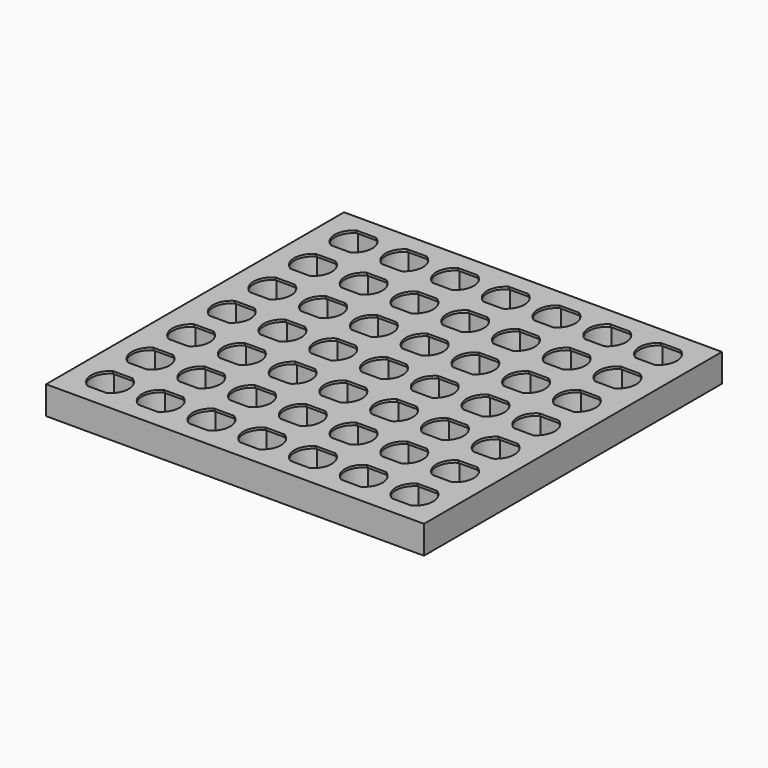
from build123d import *

# Parameters (mm, degrees)
F0_W     = 48.4
F0_H     = 47.7
F1_DEPTH = 3
F2_W     = 48.4
F2_H     = 47.7
F3_DEPTH = 0.3
F4_W     = 48.4
F4_H     = 47.7
F5_DEPTH = 0.3


with BuildPart() as f1:
    # F0 (on Top) → F1 (new body)
    with BuildSketch(Plane.XY):
        with Locations((-5.123579, -2.977481)):
            Rectangle(F0_W, F0_H)
        with BuildLine():
            ThreePointArc((-25.953053, -24.827481), (-27.323579, -22.477481), (-25.953053, -20.127481))
            Line((-25.953053, -20.127481), (-23.294105, -20.127481))
            ThreePointArc((-23.294105, -20.127481), (-21.923579, -22.477481), (-23.294105, -24.827481))
            Line((-23.294105, -24.827481), (-25.953053, -24.827481))
        make_face(mode=Mode.SUBTRACT)
        with BuildLine():
            ThreePointArc((-19.453053, -24.827481), (-20.823579, -22.477481), (-19.453053, -20.127481))
            Line((-19.453053, -20.127481), (-16.794105, -20.127481))
            ThreePointArc((-16.794105, -20.127481), (-15.423579, -22.477481), (-16.794105, -24.827481))
            Line((-16.794105, -24.827481), (-19.453053, -24.827481))
        make_face(mode=Mode.SUBTRACT)
        with BuildLine():
            ThreePointArc((-25.953053, -18.327481), (-27.323579, -15.977481), (-25.953053, -13.627481))
            Line((-25.953053, -13.627481), (-23.294105, -13.627481))
            ThreePointArc((-23.294105, -13.627481), (-21.923579, -15.977481), (-23.294105, -18.327481))
            Line((-23.294105, -18.327481), (-25.953053, -18.327481))
        make_face(mode=Mode.SUBTRACT)
        with BuildLine():
            ThreePointArc((-19.453053, -18.327481), (-20.823579, -15.977481), (-19.453053, -13.627481))
            Line((-19.453053, -13.627481), (-16.794105, -13.627481))
            ThreePointArc((-16.794105, -13.627481), (-15.423579, -15.977481), (-16.794105, -18.327481))
            Line((-16.794105, -18.327481), (-19.453053, -18.327481))
        make_face(mode=Mode.SUBTRACT)
        with BuildLine():
            ThreePointArc((-12.953053, -24.827481), (-14.323579, -22.477481), (-12.953053, -20.127481))
            Line((-12.953053, -20.127481), (-10.294105, -20.127481))
            ThreePointArc((-10.294105, -20.127481), (-8.923579, -22.477481), (-10.294105, -24.827481))
            Line((-10.294105, -24.827481), (-12.953053, -24.827481))
        make_face(mode=Mode.SUBTRACT)
        with BuildLine():
            ThreePointArc((-6.453053, -24.827481), (-7.823579, -22.477481), (-6.453053, -20.127481))
            Line((-6.453053, -20.127481), (-3.794105, -20.127481))
            ThreePointArc((-3.794105, -20.127481), (-2.423579, -22.477481), (-3.794105, -24.827481))
            Line((-3.794105, -24.827481), (-6.453053, -24.827481))
        make_face(mode=Mode.SUBTRACT)
        with BuildLine():
            ThreePointArc((-12.953053, -18.327481), (-14.323579, -15.977481), (-12.953053, -13.627481))
            Line((-12.953053, -13.627481), (-10.294105, -13.627481))
            ThreePointArc((-10.294105, -13.627481), (-8.923579, -15.977481), (-10.294105, -18.327481))
            Line((-10.294105, -18.327481), (-12.953053, -18.327481))
        make_face(mode=Mode.SUBTRACT)
        with BuildLine():
            ThreePointArc((-6.453053, -18.327481), (-7.823579, -15.977481), (-6.453053, -13.627481))
            Line((-6.453053, -13.627481), (-3.794105, -13.627481))
            ThreePointArc((-3.794105, -13.627481), (-2.423579, -15.977481), (-3.794105, -18.327481))
            Line((-3.794105, -18.327481), (-6.453053, -18.327481))
        make_face(mode=Mode.SUBTRACT)
        with BuildLine():
            ThreePointArc((-25.953053, -11.827481), (-27.323579, -9.477481), (-25.953053, -7.127481))
            Line((-25.953053, -7.127481), (-23.294105, -7.127481))
            ThreePointArc((-23.294105, -7.127481), (-21.923579, -9.477481), (-23.294105, -11.827481))
            Line((-23.294105, -11.827481), (-25.953053, -11.827481))
        make_face(mode=Mode.SUBTRACT)
        with BuildLine():
            ThreePointArc((-19.453053, -11.827481), (-20.823579, -9.477481), (-19.453053, -7.127481))
            Line((-19.453053, -7.127481), (-16.794105, -7.127481))
            ThreePointArc((-16.794105, -7.127481), (-15.423579, -9.477481), (-16.794105, -11.827481))
            Line((-16.794105, -11.827481), (-19.453053, -11.827481))
        make_face(mode=Mode.SUBTRACT)
        with BuildLine():
            ThreePointArc((-12.953053, -11.827481), (-14.323579, -9.477481), (-12.953053, -7.127481))
            Line((-12.953053, -7.127481), (-10.294105, -7.127481))
            ThreePointArc((-10.294105, -7.127481), (-8.923579, -9.477481), (-10.294105, -11.827481))
            Line((-10.294105, -11.827481), (-12.953053, -11.827481))
        make_face(mode=Mode.SUBTRACT)
        with BuildLine():
            ThreePointArc((-6.453053, -11.827481), (-7.823579, -9.477481), (-6.453053, -7.127481))
            Line((-6.453053, -7.127481), (-3.794105, -7.127481))
            ThreePointArc((-3.794105, -7.127481), (-2.423579, -9.477481), (-3.794105, -11.827481))
            Line((-3.794105, -11.827481), (-6.453053, -11.827481))
        make_face(mode=Mode.SUBTRACT)
        with BuildLine():
            ThreePointArc((-12.953053, -5.327481), (-14.323579, -2.977481), (-12.953053, -0.627481))
            Line((-12.953053, -0.627481), (-10.294105, -0.627481))
            ThreePointArc((-10.294105, -0.627481), (-8.923579, -2.977481), (-10.294105, -5.327481))
            Line((-10.294105, -5.327481), (-12.953053, -5.327481))
        make_face(mode=Mode.SUBTRACT)
        with BuildLine():
            ThreePointArc((0.046947, -24.827481), (-1.323579, -22.477481), (0.046947, -20.127481))
            Line((0.046947, -20.127481), (2.705895, -20.127481))
            ThreePointArc((2.705895, -20.127481), (4.076421, -22.477481), (2.705895, -24.827481))
            Line((2.705895, -24.827481), (0.046947, -24.827481))
        make_face(mode=Mode.SUBTRACT)
        with BuildLine():
            ThreePointArc((0.046947, -18.327481), (-1.323579, -15.977481), (0.046947, -13.627481))
            Line((0.046947, -13.627481), (2.705895, -13.627481))
            ThreePointArc((2.705895, -13.627481), (4.076421, -15.977481), (2.705895, -18.327481))
            Line((2.705895, -18.327481), (0.046947, -18.327481))
        make_face(mode=Mode.SUBTRACT)
        with BuildLine():
            ThreePointArc((6.546947, -24.827481), (5.176421, -22.477481), (6.546947, -20.127481))
            Line((6.546947, -20.127481), (9.205895, -20.127481))
            ThreePointArc((9.205895, -20.127481), (10.576421, -22.477481), (9.205895, -24.827481))
            Line((9.205895, -24.827481), (6.546947, -24.827481))
        make_face(mode=Mode.SUBTRACT)
        with BuildLine():
            ThreePointArc((13.046947, -24.827481), (11.676421, -22.477481), (13.046947, -20.127481))
            Line((13.046947, -20.127481), (15.705895, -20.127481))
            ThreePointArc((15.705895, -20.127481), (17.076421, -22.477481), (15.705895, -24.827481))
            Line((15.705895, -24.827481), (13.046947, -24.827481))
        make_face(mode=Mode.SUBTRACT)
        with BuildLine():
            ThreePointArc((6.546947, -18.327481), (5.176421, -15.977481), (6.546947, -13.627481))
            Line((6.546947, -13.627481), (9.205895, -13.627481))
            ThreePointArc((9.205895, -13.627481), (10.576421, -15.977481), (9.205895, -18.327481))
            Line((9.205895, -18.327481), (6.546947, -18.327481))
        make_face(mode=Mode.SUBTRACT)
        with BuildLine():
            ThreePointArc((13.046947, -18.327481), (11.676421, -15.977481), (13.046947, -13.627481))
            Line((13.046947, -13.627481), (15.705895, -13.627481))
            ThreePointArc((15.705895, -13.627481), (17.076421, -15.977481), (15.705895, -18.327481))
            Line((15.705895, -18.327481), (13.046947, -18.327481))
        make_face(mode=Mode.SUBTRACT)
        with BuildLine():
            ThreePointArc((0.046947, -11.827481), (-1.323579, -9.477481), (0.046947, -7.127481))
            Line((0.046947, -7.127481), (2.705895, -7.127481))
            ThreePointArc((2.705895, -7.127481), (4.076421, -9.477481), (2.705895, -11.827481))
            Line((2.705895, -11.827481), (0.046947, -11.827481))
        make_face(mode=Mode.SUBTRACT)
        with BuildLine():
            ThreePointArc((6.546947, -11.827481), (5.176421, -9.477481), (6.546947, -7.127481))
            Line((6.546947, -7.127481), (9.205895, -7.127481))
            ThreePointArc((9.205895, -7.127481), (10.576421, -9.477481), (9.205895, -11.827481))
            Line((9.205895, -11.827481), (6.546947, -11.827481))
        make_face(mode=Mode.SUBTRACT)
        with BuildLine():
            ThreePointArc((13.046947, -11.827481), (11.676421, -9.477481), (13.046947, -7.127481))
            Line((13.046947, -7.127481), (15.705895, -7.127481))
            ThreePointArc((15.705895, -7.127481), (17.076421, -9.477481), (15.705895, -11.827481))
            Line((15.705895, -11.827481), (13.046947, -11.827481))
        make_face(mode=Mode.SUBTRACT)
        with BuildLine():
            ThreePointArc((-25.953053, -5.327481), (-27.323579, -2.977481), (-25.953053, -0.627481))
            Line((-25.953053, -0.627481), (-23.294105, -0.627481))
            ThreePointArc((-23.294105, -0.627481), (-21.923579, -2.977481), (-23.294105, -5.327481))
            Line((-23.294105, -5.327481), (-25.953053, -5.327481))
        make_face(mode=Mode.SUBTRACT)
        with BuildLine():
            ThreePointArc((-19.453053, -5.327481), (-20.823579, -2.977481), (-19.453053, -0.627481))
            Line((-19.453053, -0.627481), (-16.794105, -0.627481))
            ThreePointArc((-16.794105, -0.627481), (-15.423579, -2.977481), (-16.794105, -5.327481))
            Line((-16.794105, -5.327481), (-19.453053, -5.327481))
        make_face(mode=Mode.SUBTRACT)
        with BuildLine():
            ThreePointArc((-25.953053, 1.172519), (-27.323579, 3.522519), (-25.953053, 5.872519))
            Line((-25.953053, 5.872519), (-23.294105, 5.872519))
            ThreePointArc((-23.294105, 5.872519), (-21.923579, 3.522519), (-23.294105, 1.172519))
            Line((-23.294105, 1.172519), (-25.953053, 1.172519))
        make_face(mode=Mode.SUBTRACT)
        with BuildLine():
            ThreePointArc((-19.453053, 1.172519), (-20.823579, 3.522519), (-19.453053, 5.872519))
            Line((-19.453053, 5.872519), (-16.794105, 5.872519))
            ThreePointArc((-16.794105, 5.872519), (-15.423579, 3.522519), (-16.794105, 1.172519))
            Line((-16.794105, 1.172519), (-19.453053, 1.172519))
        make_face(mode=Mode.SUBTRACT)
        with BuildLine():
            ThreePointArc((-6.453053, -5.327481), (-7.823579, -2.977481), (-6.453053, -0.627481))
            Line((-6.453053, -0.627481), (-3.794105, -0.627481))
            ThreePointArc((-3.794105, -0.627481), (-2.423579, -2.977481), (-3.794105, -5.327481))
            Line((-3.794105, -5.327481), (-6.453053, -5.327481))
        make_face(mode=Mode.SUBTRACT)
        with BuildLine():
            ThreePointArc((-12.953053, 1.172519), (-14.323579, 3.522519), (-12.953053, 5.872519))
            Line((-12.953053, 5.872519), (-10.294105, 5.872519))
            ThreePointArc((-10.294105, 5.872519), (-8.923579, 3.522519), (-10.294105, 1.172519))
            Line((-10.294105, 1.172519), (-12.953053, 1.172519))
        make_face(mode=Mode.SUBTRACT)
        with BuildLine():
            ThreePointArc((-6.453053, 1.172519), (-7.823579, 3.522519), (-6.453053, 5.872519))
            Line((-6.453053, 5.872519), (-3.794105, 5.872519))
            ThreePointArc((-3.794105, 5.872519), (-2.423579, 3.522519), (-3.794105, 1.172519))
            Line((-3.794105, 1.172519), (-6.453053, 1.172519))
        make_face(mode=Mode.SUBTRACT)
        with BuildLine():
            ThreePointArc((-25.953053, 7.672519), (-27.323579, 10.022519), (-25.953053, 12.372519))
            Line((-25.953053, 12.372519), (-23.294105, 12.372519))
            ThreePointArc((-23.294105, 12.372519), (-21.923579, 10.022519), (-23.294105, 7.672519))
            Line((-23.294105, 7.672519), (-25.953053, 7.672519))
        make_face(mode=Mode.SUBTRACT)
        with BuildLine():
            ThreePointArc((-19.453053, 7.672519), (-20.823579, 10.022519), (-19.453053, 12.372519))
            Line((-19.453053, 12.372519), (-16.794105, 12.372519))
            ThreePointArc((-16.794105, 12.372519), (-15.423579, 10.022519), (-16.794105, 7.672519))
            Line((-16.794105, 7.672519), (-19.453053, 7.672519))
        make_face(mode=Mode.SUBTRACT)
        with BuildLine():
            ThreePointArc((-23.294105, 18.872519), (-21.923579, 16.522519), (-23.294105, 14.172519))
            Line((-23.294105, 14.172519), (-25.953053, 14.172519))
            ThreePointArc((-25.953053, 14.172519), (-27.323579, 16.522519), (-25.953053, 18.872519))
            Line((-25.953053, 18.872519), (-23.294105, 18.872519))
        make_face(mode=Mode.SUBTRACT)
        with BuildLine():
            ThreePointArc((-19.453053, 14.172519), (-20.823579, 16.522519), (-19.453053, 18.872519))
            Line((-19.453053, 18.872519), (-16.794105, 18.872519))
            ThreePointArc((-16.794105, 18.872519), (-15.423579, 16.522519), (-16.794105, 14.172519))
            Line((-16.794105, 14.172519), (-19.453053, 14.172519))
        make_face(mode=Mode.SUBTRACT)
        with BuildLine():
            ThreePointArc((-12.953053, 7.672519), (-14.323579, 10.022519), (-12.953053, 12.372519))
            Line((-12.953053, 12.372519), (-10.294105, 12.372519))
            ThreePointArc((-10.294105, 12.372519), (-8.923579, 10.022519), (-10.294105, 7.672519))
            Line((-10.294105, 7.672519), (-12.953053, 7.672519))
        make_face(mode=Mode.SUBTRACT)
        with BuildLine():
            ThreePointArc((-6.453053, 7.672519), (-7.823579, 10.022519), (-6.453053, 12.372519))
            Line((-6.453053, 12.372519), (-3.794105, 12.372519))
            ThreePointArc((-3.794105, 12.372519), (-2.423579, 10.022519), (-3.794105, 7.672519))
            Line((-3.794105, 7.672519), (-6.453053, 7.672519))
        make_face(mode=Mode.SUBTRACT)
        with BuildLine():
            ThreePointArc((-12.953053, 14.172519), (-14.323579, 16.522519), (-12.953053, 18.872519))
            Line((-12.953053, 18.872519), (-10.294105, 18.872519))
            ThreePointArc((-10.294105, 18.872519), (-8.923579, 16.522519), (-10.294105, 14.172519))
            Line((-10.294105, 14.172519), (-12.953053, 14.172519))
        make_face(mode=Mode.SUBTRACT)
        with BuildLine():
            ThreePointArc((0.046947, -5.327481), (-1.323579, -2.977481), (0.046947, -0.627481))
            Line((0.046947, -0.627481), (2.705895, -0.627481))
            ThreePointArc((2.705895, -0.627481), (4.076421, -2.977481), (2.705895, -5.327481))
            Line((2.705895, -5.327481), (0.046947, -5.327481))
        make_face(mode=Mode.SUBTRACT)
        with BuildLine():
            ThreePointArc((0.046947, 1.172519), (-1.323579, 3.522519), (0.046947, 5.872519))
            Line((0.046947, 5.872519), (2.705895, 5.872519))
            ThreePointArc((2.705895, 5.872519), (4.076421, 3.522519), (2.705895, 1.172519))
            Line((2.705895, 1.172519), (0.046947, 1.172519))
        make_face(mode=Mode.SUBTRACT)
        with BuildLine():
            ThreePointArc((6.546947, -5.327481), (5.176421, -2.977481), (6.546947, -0.627481))
            Line((6.546947, -0.627481), (9.205895, -0.627481))
            ThreePointArc((9.205895, -0.627481), (10.576421, -2.977481), (9.205895, -5.327481))
            Line((9.205895, -5.327481), (6.546947, -5.327481))
        make_face(mode=Mode.SUBTRACT)
        with BuildLine():
            ThreePointArc((13.046947, -5.327481), (11.676421, -2.977481), (13.046947, -0.627481))
            Line((13.046947, -0.627481), (15.705895, -0.627481))
            ThreePointArc((15.705895, -0.627481), (17.076421, -2.977481), (15.705895, -5.327481))
            Line((15.705895, -5.327481), (13.046947, -5.327481))
        make_face(mode=Mode.SUBTRACT)
        with BuildLine():
            ThreePointArc((6.546947, 1.172519), (5.176421, 3.522519), (6.546947, 5.872519))
            Line((6.546947, 5.872519), (9.205895, 5.872519))
            ThreePointArc((9.205895, 5.872519), (10.576421, 3.522519), (9.205895, 1.172519))
            Line((9.205895, 1.172519), (6.546947, 1.172519))
        make_face(mode=Mode.SUBTRACT)
        with BuildLine():
            ThreePointArc((13.046947, 1.172519), (11.676421, 3.522519), (13.046947, 5.872519))
            Line((13.046947, 5.872519), (15.705895, 5.872519))
            ThreePointArc((15.705895, 5.872519), (17.076421, 3.522519), (15.705895, 1.172519))
            Line((15.705895, 1.172519), (13.046947, 1.172519))
        make_face(mode=Mode.SUBTRACT)
        with BuildLine():
            ThreePointArc((0.046947, 7.672519), (-1.323579, 10.022519), (0.046947, 12.372519))
            Line((0.046947, 12.372519), (2.705895, 12.372519))
            ThreePointArc((2.705895, 12.372519), (4.076421, 10.022519), (2.705895, 7.672519))
            Line((2.705895, 7.672519), (0.046947, 7.672519))
        make_face(mode=Mode.SUBTRACT)
        with BuildLine():
            ThreePointArc((-6.453053, 14.172519), (-7.823579, 16.522519), (-6.453053, 18.872519))
            Line((-6.453053, 18.872519), (-3.794105, 18.872519))
            ThreePointArc((-3.794105, 18.872519), (-2.423579, 16.522519), (-3.794105, 14.172519))
            Line((-3.794105, 14.172519), (-6.453053, 14.172519))
        make_face(mode=Mode.SUBTRACT)
        with BuildLine():
            ThreePointArc((0.046947, 14.172519), (-1.323579, 16.522519), (0.046947, 18.872519))
            Line((0.046947, 18.872519), (2.705895, 18.872519))
            ThreePointArc((2.705895, 18.872519), (4.076421, 16.522519), (2.705895, 14.172519))
            Line((2.705895, 14.172519), (0.046947, 14.172519))
        make_face(mode=Mode.SUBTRACT)
        with BuildLine():
            ThreePointArc((6.546947, 7.672519), (5.176421, 10.022519), (6.546947, 12.372519))
            Line((6.546947, 12.372519), (9.205895, 12.372519))
            ThreePointArc((9.205895, 12.372519), (10.576421, 10.022519), (9.205895, 7.672519))
            Line((9.205895, 7.672519), (6.546947, 7.672519))
        make_face(mode=Mode.SUBTRACT)
        with BuildLine():
            ThreePointArc((13.046947, 7.672519), (11.676421, 10.022519), (13.046947, 12.372519))
            Line((13.046947, 12.372519), (15.705895, 12.372519))
            ThreePointArc((15.705895, 12.372519), (17.076421, 10.022519), (15.705895, 7.672519))
            Line((15.705895, 7.672519), (13.046947, 7.672519))
        make_face(mode=Mode.SUBTRACT)
        with BuildLine():
            ThreePointArc((6.546947, 14.172519), (5.176421, 16.522519), (6.546947, 18.872519))
            Line((6.546947, 18.872519), (9.205895, 18.872519))
            ThreePointArc((9.205895, 18.872519), (10.576421, 16.522519), (9.205895, 14.172519))
            Line((9.205895, 14.172519), (6.546947, 14.172519))
        make_face(mode=Mode.SUBTRACT)
        with BuildLine():
            ThreePointArc((13.046947, 14.172519), (11.676421, 16.522519), (13.046947, 18.872519))
            Line((13.046947, 18.872519), (15.705895, 18.872519))
            ThreePointArc((15.705895, 18.872519), (17.076421, 16.522519), (15.705895, 14.172519))
            Line((15.705895, 14.172519), (13.046947, 14.172519))
        make_face(mode=Mode.SUBTRACT)
    extrude(amount=F1_DEPTH)

    # F2 (on face) → F3 (join)
    with BuildSketch(Plane.XY.offset(3)):
        with Locations((-5.123579, -2.977481)):
            Rectangle(F2_W, F2_H)
        with BuildLine():
            ThreePointArc((-25.871577, -24.527481), (-27.023579, -22.477481), (-25.871577, -20.427481))
            Line((-25.871577, -20.427481), (-23.375581, -20.427481))
            ThreePointArc((-23.375581, -20.427481), (-22.223579, -22.477481), (-23.375581, -24.527481))
            Line((-23.375581, -24.527481), (-25.871577, -24.527481))
        make_face(mode=Mode.SUBTRACT)
        with BuildLine():
            ThreePointArc((-19.371577, -24.527481), (-20.523579, -22.477481), (-19.371577, -20.427481))
            Line((-19.371577, -20.427481), (-16.875581, -20.427481))
            ThreePointArc((-16.875581, -20.427481), (-15.723579, -22.477481), (-16.875581, -24.527481))
            Line((-16.875581, -24.527481), (-19.371577, -24.527481))
        make_face(mode=Mode.SUBTRACT)
        with BuildLine():
            ThreePointArc((-25.871577, -18.027481), (-27.023579, -15.977481), (-25.871577, -13.927481))
            Line((-25.871577, -13.927481), (-23.375581, -13.927481))
            ThreePointArc((-23.375581, -13.927481), (-22.223579, -15.977481), (-23.375581, -18.027481))
            Line((-23.375581, -18.027481), (-25.871577, -18.027481))
        make_face(mode=Mode.SUBTRACT)
        with BuildLine():
            ThreePointArc((-19.371577, -18.027481), (-20.523579, -15.977481), (-19.371577, -13.927481))
            Line((-19.371577, -13.927481), (-16.875581, -13.927481))
            ThreePointArc((-16.875581, -13.927481), (-15.723579, -15.977481), (-16.875581, -18.027481))
            Line((-16.875581, -18.027481), (-19.371577, -18.027481))
        make_face(mode=Mode.SUBTRACT)
        with BuildLine():
            ThreePointArc((-12.871577, -24.527481), (-14.023579, -22.477481), (-12.871577, -20.427481))
            Line((-12.871577, -20.427481), (-10.375581, -20.427481))
            ThreePointArc((-10.375581, -20.427481), (-9.223579, -22.477481), (-10.375581, -24.527481))
            Line((-10.375581, -24.527481), (-12.871577, -24.527481))
        make_face(mode=Mode.SUBTRACT)
        with BuildLine():
            ThreePointArc((-12.871577, -18.027481), (-14.023579, -15.977481), (-12.871577, -13.927481))
            Line((-12.871577, -13.927481), (-10.375581, -13.927481))
            ThreePointArc((-10.375581, -13.927481), (-9.223579, -15.977481), (-10.375581, -18.027481))
            Line((-10.375581, -18.027481), (-12.871577, -18.027481))
        make_face(mode=Mode.SUBTRACT)
        with BuildLine():
            ThreePointArc((-25.871577, -11.527481), (-27.023579, -9.477481), (-25.871577, -7.427481))
            Line((-25.871577, -7.427481), (-23.375581, -7.427481))
            ThreePointArc((-23.375581, -7.427481), (-22.223579, -9.477481), (-23.375581, -11.527481))
            Line((-23.375581, -11.527481), (-25.871577, -11.527481))
        make_face(mode=Mode.SUBTRACT)
        with BuildLine():
            ThreePointArc((-19.371577, -11.527481), (-20.523579, -9.477481), (-19.371577, -7.427481))
            Line((-19.371577, -7.427481), (-16.875581, -7.427481))
            ThreePointArc((-16.875581, -7.427481), (-15.723579, -9.477481), (-16.875581, -11.527481))
            Line((-16.875581, -11.527481), (-19.371577, -11.527481))
        make_face(mode=Mode.SUBTRACT)
        with BuildLine():
            ThreePointArc((-12.871577, -11.527481), (-14.023579, -9.477481), (-12.871577, -7.427481))
            Line((-12.871577, -7.427481), (-10.375581, -7.427481))
            ThreePointArc((-10.375581, -7.427481), (-9.223579, -9.477481), (-10.375581, -11.527481))
            Line((-10.375581, -11.527481), (-12.871577, -11.527481))
        make_face(mode=Mode.SUBTRACT)
        with BuildLine():
            ThreePointArc((-6.371577, -24.527481), (-7.523579, -22.477481), (-6.371577, -20.427481))
            Line((-6.371577, -20.427481), (-3.875581, -20.427481))
            ThreePointArc((-3.875581, -20.427481), (-2.723579, -22.477481), (-3.875581, -24.527481))
            Line((-3.875581, -24.527481), (-6.371577, -24.527481))
        make_face(mode=Mode.SUBTRACT)
        with BuildLine():
            ThreePointArc((0.128423, -24.527481), (-1.023579, -22.477481), (0.128423, -20.427481))
            Line((0.128423, -20.427481), (2.624419, -20.427481))
            ThreePointArc((2.624419, -20.427481), (3.776421, -22.477481), (2.624419, -24.527481))
            Line((2.624419, -24.527481), (0.128423, -24.527481))
        make_face(mode=Mode.SUBTRACT)
        with BuildLine():
            ThreePointArc((-6.371577, -18.027481), (-7.523579, -15.977481), (-6.371577, -13.927481))
            Line((-6.371577, -13.927481), (-3.875581, -13.927481))
            ThreePointArc((-3.875581, -13.927481), (-2.723579, -15.977481), (-3.875581, -18.027481))
            Line((-3.875581, -18.027481), (-6.371577, -18.027481))
        make_face(mode=Mode.SUBTRACT)
        with BuildLine():
            ThreePointArc((0.128423, -18.027481), (-1.023579, -15.977481), (0.128423, -13.927481))
            Line((0.128423, -13.927481), (2.624419, -13.927481))
            ThreePointArc((2.624419, -13.927481), (3.776421, -15.977481), (2.624419, -18.027481))
            Line((2.624419, -18.027481), (0.128423, -18.027481))
        make_face(mode=Mode.SUBTRACT)
        with BuildLine():
            ThreePointArc((6.628423, -24.527481), (5.476421, -22.477481), (6.628423, -20.427481))
            Line((6.628423, -20.427481), (9.124419, -20.427481))
            ThreePointArc((9.124419, -20.427481), (10.276421, -22.477481), (9.124419, -24.527481))
            Line((9.124419, -24.527481), (6.628423, -24.527481))
        make_face(mode=Mode.SUBTRACT)
        with BuildLine():
            ThreePointArc((13.128423, -24.527481), (11.976421, -22.477481), (13.128423, -20.427481))
            Line((13.128423, -20.427481), (15.624419, -20.427481))
            ThreePointArc((15.624419, -20.427481), (16.776421, -22.477481), (15.624419, -24.527481))
            Line((15.624419, -24.527481), (13.128423, -24.527481))
        make_face(mode=Mode.SUBTRACT)
        with BuildLine():
            ThreePointArc((6.628423, -18.027481), (5.476421, -15.977481), (6.628423, -13.927481))
            Line((6.628423, -13.927481), (9.124419, -13.927481))
            ThreePointArc((9.124419, -13.927481), (10.276421, -15.977481), (9.124419, -18.027481))
            Line((9.124419, -18.027481), (6.628423, -18.027481))
        make_face(mode=Mode.SUBTRACT)
        with BuildLine():
            ThreePointArc((13.128423, -18.027481), (11.976421, -15.977481), (13.128423, -13.927481))
            Line((13.128423, -13.927481), (15.624419, -13.927481))
            ThreePointArc((15.624419, -13.927481), (16.776421, -15.977481), (15.624419, -18.027481))
            Line((15.624419, -18.027481), (13.128423, -18.027481))
        make_face(mode=Mode.SUBTRACT)
        with BuildLine():
            ThreePointArc((-6.371577, -11.527481), (-7.523579, -9.477481), (-6.371577, -7.427481))
            Line((-6.371577, -7.427481), (-3.875581, -7.427481))
            ThreePointArc((-3.875581, -7.427481), (-2.723579, -9.477481), (-3.875581, -11.527481))
            Line((-3.875581, -11.527481), (-6.371577, -11.527481))
        make_face(mode=Mode.SUBTRACT)
        with BuildLine():
            ThreePointArc((0.128423, -11.527481), (-1.023579, -9.477481), (0.128423, -7.427481))
            Line((0.128423, -7.427481), (2.624419, -7.427481))
            ThreePointArc((2.624419, -7.427481), (3.776421, -9.477481), (2.624419, -11.527481))
            Line((2.624419, -11.527481), (0.128423, -11.527481))
        make_face(mode=Mode.SUBTRACT)
        with BuildLine():
            ThreePointArc((6.628423, -11.527481), (5.476421, -9.477481), (6.628423, -7.427481))
            Line((6.628423, -7.427481), (9.124419, -7.427481))
            ThreePointArc((9.124419, -7.427481), (10.276421, -9.477481), (9.124419, -11.527481))
            Line((9.124419, -11.527481), (6.628423, -11.527481))
        make_face(mode=Mode.SUBTRACT)
        with BuildLine():
            ThreePointArc((13.128423, -11.527481), (11.976421, -9.477481), (13.128423, -7.427481))
            Line((13.128423, -7.427481), (15.624419, -7.427481))
            ThreePointArc((15.624419, -7.427481), (16.776421, -9.477481), (15.624419, -11.527481))
            Line((15.624419, -11.527481), (13.128423, -11.527481))
        make_face(mode=Mode.SUBTRACT)
        with BuildLine():
            ThreePointArc((-25.871577, -5.027481), (-27.023579, -2.977481), (-25.871577, -0.927481))
            Line((-25.871577, -0.927481), (-23.375581, -0.927481))
            ThreePointArc((-23.375581, -0.927481), (-22.223579, -2.977481), (-23.375581, -5.027481))
            Line((-23.375581, -5.027481), (-25.871577, -5.027481))
        make_face(mode=Mode.SUBTRACT)
        with BuildLine():
            ThreePointArc((-19.371577, -5.027481), (-20.523579, -2.977481), (-19.371577, -0.927481))
            Line((-19.371577, -0.927481), (-16.875581, -0.927481))
            ThreePointArc((-16.875581, -0.927481), (-15.723579, -2.977481), (-16.875581, -5.027481))
            Line((-16.875581, -5.027481), (-19.371577, -5.027481))
        make_face(mode=Mode.SUBTRACT)
        with BuildLine():
            ThreePointArc((-25.871577, 1.472519), (-27.023579, 3.522519), (-25.871577, 5.572519))
            Line((-25.871577, 5.572519), (-23.375581, 5.572519))
            ThreePointArc((-23.375581, 5.572519), (-22.223579, 3.522519), (-23.375581, 1.472519))
            Line((-23.375581, 1.472519), (-25.871577, 1.472519))
        make_face(mode=Mode.SUBTRACT)
        with BuildLine():
            ThreePointArc((-19.371577, 1.472519), (-20.523579, 3.522519), (-19.371577, 5.572519))
            Line((-19.371577, 5.572519), (-16.875581, 5.572519))
            ThreePointArc((-16.875581, 5.572519), (-15.723579, 3.522519), (-16.875581, 1.472519))
            Line((-16.875581, 1.472519), (-19.371577, 1.472519))
        make_face(mode=Mode.SUBTRACT)
        with BuildLine():
            ThreePointArc((-12.871577, -5.027481), (-14.023579, -2.977481), (-12.871577, -0.927481))
            Line((-12.871577, -0.927481), (-10.375581, -0.927481))
            ThreePointArc((-10.375581, -0.927481), (-9.223579, -2.977481), (-10.375581, -5.027481))
            Line((-10.375581, -5.027481), (-12.871577, -5.027481))
        make_face(mode=Mode.SUBTRACT)
        with BuildLine():
            ThreePointArc((-12.871577, 1.472519), (-14.023579, 3.522519), (-12.871577, 5.572519))
            Line((-12.871577, 5.572519), (-10.375581, 5.572519))
            ThreePointArc((-10.375581, 5.572519), (-9.223579, 3.522519), (-10.375581, 1.472519))
            Line((-10.375581, 1.472519), (-12.871577, 1.472519))
        make_face(mode=Mode.SUBTRACT)
        with BuildLine():
            ThreePointArc((-25.871577, 7.972519), (-27.023579, 10.022519), (-25.871577, 12.072519))
            Line((-25.871577, 12.072519), (-23.375581, 12.072519))
            ThreePointArc((-23.375581, 12.072519), (-22.223579, 10.022519), (-23.375581, 7.972519))
            Line((-23.375581, 7.972519), (-25.871577, 7.972519))
        make_face(mode=Mode.SUBTRACT)
        with BuildLine():
            ThreePointArc((-19.371577, 7.972519), (-20.523579, 10.022519), (-19.371577, 12.072519))
            Line((-19.371577, 12.072519), (-16.875581, 12.072519))
            ThreePointArc((-16.875581, 12.072519), (-15.723579, 10.022519), (-16.875581, 7.972519))
            Line((-16.875581, 7.972519), (-19.371577, 7.972519))
        make_face(mode=Mode.SUBTRACT)
        with BuildLine():
            Line((-25.871577, 18.572519), (-23.375581, 18.572519))
            ThreePointArc((-23.375581, 18.572519), (-22.223579, 16.522519), (-23.375581, 14.472519))
            Line((-23.375581, 14.472519), (-25.871577, 14.472519))
            ThreePointArc((-25.871577, 14.472519), (-27.023579, 16.522519), (-25.871577, 18.572519))
        make_face(mode=Mode.SUBTRACT)
        with BuildLine():
            ThreePointArc((-19.371577, 14.472519), (-20.523579, 16.522519), (-19.371577, 18.572519))
            Line((-19.371577, 18.572519), (-16.875581, 18.572519))
            ThreePointArc((-16.875581, 18.572519), (-15.723579, 16.522519), (-16.875581, 14.472519))
            Line((-16.875581, 14.472519), (-19.371577, 14.472519))
        make_face(mode=Mode.SUBTRACT)
        with BuildLine():
            ThreePointArc((-12.871577, 7.972519), (-14.023579, 10.022519), (-12.871577, 12.072519))
            Line((-12.871577, 12.072519), (-10.375581, 12.072519))
            ThreePointArc((-10.375581, 12.072519), (-9.223579, 10.022519), (-10.375581, 7.972519))
            Line((-10.375581, 7.972519), (-12.871577, 7.972519))
        make_face(mode=Mode.SUBTRACT)
        with BuildLine():
            ThreePointArc((-12.871577, 14.472519), (-14.023579, 16.522519), (-12.871577, 18.572519))
            Line((-12.871577, 18.572519), (-10.375581, 18.572519))
            ThreePointArc((-10.375581, 18.572519), (-9.223579, 16.522519), (-10.375581, 14.472519))
            Line((-10.375581, 14.472519), (-12.871577, 14.472519))
        make_face(mode=Mode.SUBTRACT)
        with BuildLine():
            ThreePointArc((-6.371577, -5.027481), (-7.523579, -2.977481), (-6.371577, -0.927481))
            Line((-6.371577, -0.927481), (-3.875581, -0.927481))
            ThreePointArc((-3.875581, -0.927481), (-2.723579, -2.977481), (-3.875581, -5.027481))
            Line((-3.875581, -5.027481), (-6.371577, -5.027481))
        make_face(mode=Mode.SUBTRACT)
        with BuildLine():
            ThreePointArc((0.128423, -5.027481), (-1.023579, -2.977481), (0.128423, -0.927481))
            Line((0.128423, -0.927481), (2.624419, -0.927481))
            ThreePointArc((2.624419, -0.927481), (3.776421, -2.977481), (2.624419, -5.027481))
            Line((2.624419, -5.027481), (0.128423, -5.027481))
        make_face(mode=Mode.SUBTRACT)
        with BuildLine():
            ThreePointArc((-6.371577, 1.472519), (-7.523579, 3.522519), (-6.371577, 5.572519))
            Line((-6.371577, 5.572519), (-3.875581, 5.572519))
            ThreePointArc((-3.875581, 5.572519), (-2.723579, 3.522519), (-3.875581, 1.472519))
            Line((-3.875581, 1.472519), (-6.371577, 1.472519))
        make_face(mode=Mode.SUBTRACT)
        with BuildLine():
            ThreePointArc((0.128423, 1.472519), (-1.023579, 3.522519), (0.128423, 5.572519))
            Line((0.128423, 5.572519), (2.624419, 5.572519))
            ThreePointArc((2.624419, 5.572519), (3.776421, 3.522519), (2.624419, 1.472519))
            Line((2.624419, 1.472519), (0.128423, 1.472519))
        make_face(mode=Mode.SUBTRACT)
        with BuildLine():
            ThreePointArc((6.628423, -5.027481), (5.476421, -2.977481), (6.628423, -0.927481))
            Line((6.628423, -0.927481), (9.124419, -0.927481))
            ThreePointArc((9.124419, -0.927481), (10.276421, -2.977481), (9.124419, -5.027481))
            Line((9.124419, -5.027481), (6.628423, -5.027481))
        make_face(mode=Mode.SUBTRACT)
        with BuildLine():
            ThreePointArc((13.128423, -5.027481), (11.976421, -2.977481), (13.128423, -0.927481))
            Line((13.128423, -0.927481), (15.624419, -0.927481))
            ThreePointArc((15.624419, -0.927481), (16.776421, -2.977481), (15.624419, -5.027481))
            Line((15.624419, -5.027481), (13.128423, -5.027481))
        make_face(mode=Mode.SUBTRACT)
        with BuildLine():
            ThreePointArc((6.628423, 1.472519), (5.476421, 3.522519), (6.628423, 5.572519))
            Line((6.628423, 5.572519), (9.124419, 5.572519))
            ThreePointArc((9.124419, 5.572519), (10.276421, 3.522519), (9.124419, 1.472519))
            Line((9.124419, 1.472519), (6.628423, 1.472519))
        make_face(mode=Mode.SUBTRACT)
        with BuildLine():
            ThreePointArc((13.128423, 1.472519), (11.976421, 3.522519), (13.128423, 5.572519))
            Line((13.128423, 5.572519), (15.624419, 5.572519))
            ThreePointArc((15.624419, 5.572519), (16.776421, 3.522519), (15.624419, 1.472519))
            Line((15.624419, 1.472519), (13.128423, 1.472519))
        make_face(mode=Mode.SUBTRACT)
        with BuildLine():
            ThreePointArc((-6.371577, 7.972519), (-7.523579, 10.022519), (-6.371577, 12.072519))
            Line((-6.371577, 12.072519), (-3.875581, 12.072519))
            ThreePointArc((-3.875581, 12.072519), (-2.723579, 10.022519), (-3.875581, 7.972519))
            Line((-3.875581, 7.972519), (-6.371577, 7.972519))
        make_face(mode=Mode.SUBTRACT)
        with BuildLine():
            ThreePointArc((0.128423, 7.972519), (-1.023579, 10.022519), (0.128423, 12.072519))
            Line((0.128423, 12.072519), (2.624419, 12.072519))
            ThreePointArc((2.624419, 12.072519), (3.776421, 10.022519), (2.624419, 7.972519))
            Line((2.624419, 7.972519), (0.128423, 7.972519))
        make_face(mode=Mode.SUBTRACT)
        with BuildLine():
            ThreePointArc((-6.371577, 14.472519), (-7.523579, 16.522519), (-6.371577, 18.572519))
            Line((-6.371577, 18.572519), (-3.875581, 18.572519))
            ThreePointArc((-3.875581, 18.572519), (-2.723579, 16.522519), (-3.875581, 14.472519))
            Line((-3.875581, 14.472519), (-6.371577, 14.472519))
        make_face(mode=Mode.SUBTRACT)
        with BuildLine():
            ThreePointArc((0.128423, 14.472519), (-1.023579, 16.522519), (0.128423, 18.572519))
            Line((0.128423, 18.572519), (2.624419, 18.572519))
            ThreePointArc((2.624419, 18.572519), (3.776421, 16.522519), (2.624419, 14.472519))
            Line((2.624419, 14.472519), (0.128423, 14.472519))
        make_face(mode=Mode.SUBTRACT)
        with BuildLine():
            ThreePointArc((6.628423, 7.972519), (5.476421, 10.022519), (6.628423, 12.072519))
            Line((6.628423, 12.072519), (9.124419, 12.072519))
            ThreePointArc((9.124419, 12.072519), (10.276421, 10.022519), (9.124419, 7.972519))
            Line((9.124419, 7.972519), (6.628423, 7.972519))
        make_face(mode=Mode.SUBTRACT)
        with BuildLine():
            ThreePointArc((13.128423, 7.972519), (11.976421, 10.022519), (13.128423, 12.072519))
            Line((13.128423, 12.072519), (15.624419, 12.072519))
            ThreePointArc((15.624419, 12.072519), (16.776421, 10.022519), (15.624419, 7.972519))
            Line((15.624419, 7.972519), (13.128423, 7.972519))
        make_face(mode=Mode.SUBTRACT)
        with BuildLine():
            ThreePointArc((6.628423, 14.472519), (5.476421, 16.522519), (6.628423, 18.572519))
            Line((6.628423, 18.572519), (9.124419, 18.572519))
            ThreePointArc((9.124419, 18.572519), (10.276421, 16.522519), (9.124419, 14.472519))
            Line((9.124419, 14.472519), (6.628423, 14.472519))
        make_face(mode=Mode.SUBTRACT)
        with BuildLine():
            ThreePointArc((13.128423, 14.472519), (11.976421, 16.522519), (13.128423, 18.572519))
            Line((13.128423, 18.572519), (15.624419, 18.572519))
            ThreePointArc((15.624419, 18.572519), (16.776421, 16.522519), (15.624419, 14.472519))
            Line((15.624419, 14.472519), (13.128423, 14.472519))
        make_face(mode=Mode.SUBTRACT)
    extrude(amount=F3_DEPTH)

    # F4 (on face) → F5 (join)
    with BuildSketch(Plane.XY):
        with Locations((-5.123579, -2.977481)):
            Rectangle(F4_W, F4_H)
        with BuildLine():
            Line((-25.871577, -20.427481), (-23.375581, -20.427481))
            ThreePointArc((-23.375581, -20.427481), (-22.223579, -22.477481), (-23.375581, -24.527481))
            Line((-23.375581, -24.527481), (-25.871577, -24.527481))
            ThreePointArc((-25.871577, -24.527481), (-27.023579, -22.477481), (-25.871577, -20.427481))
        make_face(mode=Mode.SUBTRACT)
        with BuildLine():
            ThreePointArc((-19.371577, -24.527481), (-20.523579, -22.477481), (-19.371577, -20.427481))
            Line((-19.371577, -20.427481), (-16.875581, -20.427481))
            ThreePointArc((-16.875581, -20.427481), (-15.723579, -22.477481), (-16.875581, -24.527481))
            Line((-16.875581, -24.527481), (-19.371577, -24.527481))
        make_face(mode=Mode.SUBTRACT)
        with BuildLine():
            Line((-25.871577, -13.927481), (-23.375581, -13.927481))
            ThreePointArc((-23.375581, -13.927481), (-22.223579, -15.977481), (-23.375581, -18.027481))
            Line((-23.375581, -18.027481), (-25.871577, -18.027481))
            ThreePointArc((-25.871577, -18.027481), (-27.023579, -15.977481), (-25.871577, -13.927481))
        make_face(mode=Mode.SUBTRACT)
        with BuildLine():
            ThreePointArc((-19.371577, -18.027481), (-20.523579, -15.977481), (-19.371577, -13.927481))
            Line((-19.371577, -13.927481), (-16.875581, -13.927481))
            ThreePointArc((-16.875581, -13.927481), (-15.723579, -15.977481), (-16.875581, -18.027481))
            Line((-16.875581, -18.027481), (-19.371577, -18.027481))
        make_face(mode=Mode.SUBTRACT)
        with BuildLine():
            ThreePointArc((-12.871577, -24.527481), (-14.023579, -22.477481), (-12.871577, -20.427481))
            Line((-12.871577, -20.427481), (-10.375581, -20.427481))
            ThreePointArc((-10.375581, -20.427481), (-9.223579, -22.477481), (-10.375581, -24.527481))
            Line((-10.375581, -24.527481), (-12.871577, -24.527481))
        make_face(mode=Mode.SUBTRACT)
        with BuildLine():
            ThreePointArc((-12.871577, -18.027481), (-14.023579, -15.977481), (-12.871577, -13.927481))
            Line((-12.871577, -13.927481), (-10.375581, -13.927481))
            ThreePointArc((-10.375581, -13.927481), (-9.223579, -15.977481), (-10.375581, -18.027481))
            Line((-10.375581, -18.027481), (-12.871577, -18.027481))
        make_face(mode=Mode.SUBTRACT)
        with BuildLine():
            Line((-25.871577, -7.427481), (-23.375581, -7.427481))
            ThreePointArc((-23.375581, -7.427481), (-22.223579, -9.477481), (-23.375581, -11.527481))
            Line((-23.375581, -11.527481), (-25.871577, -11.527481))
            ThreePointArc((-25.871577, -11.527481), (-27.023579, -9.477481), (-25.871577, -7.427481))
        make_face(mode=Mode.SUBTRACT)
        with BuildLine():
            ThreePointArc((-19.371577, -11.527481), (-20.523579, -9.477481), (-19.371577, -7.427481))
            Line((-19.371577, -7.427481), (-16.875581, -7.427481))
            ThreePointArc((-16.875581, -7.427481), (-15.723579, -9.477481), (-16.875581, -11.527481))
            Line((-16.875581, -11.527481), (-19.371577, -11.527481))
        make_face(mode=Mode.SUBTRACT)
        with BuildLine():
            Line((-25.871577, -0.927481), (-23.375581, -0.927481))
            ThreePointArc((-23.375581, -0.927481), (-22.223579, -2.977481), (-23.375581, -5.027481))
            Line((-23.375581, -5.027481), (-25.871577, -5.027481))
            ThreePointArc((-25.871577, -5.027481), (-27.023579, -2.977481), (-25.871577, -0.927481))
        make_face(mode=Mode.SUBTRACT)
        with BuildLine():
            ThreePointArc((-19.371577, -5.027481), (-20.523579, -2.977481), (-19.371577, -0.927481))
            Line((-19.371577, -0.927481), (-16.875581, -0.927481))
            ThreePointArc((-16.875581, -0.927481), (-15.723579, -2.977481), (-16.875581, -5.027481))
            Line((-16.875581, -5.027481), (-19.371577, -5.027481))
        make_face(mode=Mode.SUBTRACT)
        with BuildLine():
            ThreePointArc((-12.871577, -11.527481), (-14.023579, -9.477481), (-12.871577, -7.427481))
            Line((-12.871577, -7.427481), (-10.375581, -7.427481))
            ThreePointArc((-10.375581, -7.427481), (-9.223579, -9.477481), (-10.375581, -11.527481))
            Line((-10.375581, -11.527481), (-12.871577, -11.527481))
        make_face(mode=Mode.SUBTRACT)
        with BuildLine():
            ThreePointArc((-12.871577, -5.027481), (-14.023579, -2.977481), (-12.871577, -0.927481))
            Line((-12.871577, -0.927481), (-10.375581, -0.927481))
            ThreePointArc((-10.375581, -0.927481), (-9.223579, -2.977481), (-10.375581, -5.027481))
            Line((-10.375581, -5.027481), (-12.871577, -5.027481))
        make_face(mode=Mode.SUBTRACT)
        with BuildLine():
            ThreePointArc((-6.371577, -24.527481), (-7.523579, -22.477481), (-6.371577, -20.427481))
            Line((-6.371577, -20.427481), (-3.875581, -20.427481))
            ThreePointArc((-3.875581, -20.427481), (-2.723579, -22.477481), (-3.875581, -24.527481))
            Line((-3.875581, -24.527481), (-6.371577, -24.527481))
        make_face(mode=Mode.SUBTRACT)
        with BuildLine():
            ThreePointArc((2.624419, -20.427481), (3.776421, -22.477481), (2.624419, -24.527481))
            Line((2.624419, -24.527481), (0.128423, -24.527481))
            ThreePointArc((0.128423, -24.527481), (-1.023579, -22.477481), (0.128423, -20.427481))
            Line((0.128423, -20.427481), (2.624419, -20.427481))
        make_face(mode=Mode.SUBTRACT)
        with BuildLine():
            ThreePointArc((-6.371577, -18.027481), (-7.523579, -15.977481), (-6.371577, -13.927481))
            Line((-6.371577, -13.927481), (-3.875581, -13.927481))
            ThreePointArc((-3.875581, -13.927481), (-2.723579, -15.977481), (-3.875581, -18.027481))
            Line((-3.875581, -18.027481), (-6.371577, -18.027481))
        make_face(mode=Mode.SUBTRACT)
        with BuildLine():
            ThreePointArc((2.624419, -13.927481), (3.776421, -15.977481), (2.624419, -18.027481))
            Line((2.624419, -18.027481), (0.128423, -18.027481))
            ThreePointArc((0.128423, -18.027481), (-1.023579, -15.977481), (0.128423, -13.927481))
            Line((0.128423, -13.927481), (2.624419, -13.927481))
        make_face(mode=Mode.SUBTRACT)
        with BuildLine():
            ThreePointArc((9.124419, -20.427481), (10.276421, -22.477481), (9.124419, -24.527481))
            Line((9.124419, -24.527481), (6.628423, -24.527481))
            ThreePointArc((6.628423, -24.527481), (5.476421, -22.477481), (6.628423, -20.427481))
            Line((6.628423, -20.427481), (9.124419, -20.427481))
        make_face(mode=Mode.SUBTRACT)
        with BuildLine():
            Line((13.128423, -20.427481), (15.624419, -20.427481))
            ThreePointArc((15.624419, -20.427481), (16.776421, -22.477481), (15.624419, -24.527481))
            Line((15.624419, -24.527481), (13.128423, -24.527481))
            ThreePointArc((13.128423, -24.527481), (11.976421, -22.477481), (13.128423, -20.427481))
        make_face(mode=Mode.SUBTRACT)
        with BuildLine():
            ThreePointArc((9.124419, -13.927481), (10.276421, -15.977481), (9.124419, -18.027481))
            Line((9.124419, -18.027481), (6.628423, -18.027481))
            ThreePointArc((6.628423, -18.027481), (5.476421, -15.977481), (6.628423, -13.927481))
            Line((6.628423, -13.927481), (9.124419, -13.927481))
        make_face(mode=Mode.SUBTRACT)
        with BuildLine():
            Line((13.128423, -13.927481), (15.624419, -13.927481))
            ThreePointArc((15.624419, -13.927481), (16.776421, -15.977481), (15.624419, -18.027481))
            Line((15.624419, -18.027481), (13.128423, -18.027481))
            ThreePointArc((13.128423, -18.027481), (11.976421, -15.977481), (13.128423, -13.927481))
        make_face(mode=Mode.SUBTRACT)
        with BuildLine():
            ThreePointArc((-6.371577, -11.527481), (-7.523579, -9.477481), (-6.371577, -7.427481))
            Line((-6.371577, -7.427481), (-3.875581, -7.427481))
            ThreePointArc((-3.875581, -7.427481), (-2.723579, -9.477481), (-3.875581, -11.527481))
            Line((-3.875581, -11.527481), (-6.371577, -11.527481))
        make_face(mode=Mode.SUBTRACT)
        with BuildLine():
            ThreePointArc((2.624419, -7.427481), (3.776421, -9.477481), (2.624419, -11.527481))
            Line((2.624419, -11.527481), (0.128423, -11.527481))
            ThreePointArc((0.128423, -11.527481), (-1.023579, -9.477481), (0.128423, -7.427481))
            Line((0.128423, -7.427481), (2.624419, -7.427481))
        make_face(mode=Mode.SUBTRACT)
        with BuildLine():
            ThreePointArc((-6.371577, -5.027481), (-7.523579, -2.977481), (-6.371577, -0.927481))
            Line((-6.371577, -0.927481), (-3.875581, -0.927481))
            ThreePointArc((-3.875581, -0.927481), (-2.723579, -2.977481), (-3.875581, -5.027481))
            Line((-3.875581, -5.027481), (-6.371577, -5.027481))
        make_face(mode=Mode.SUBTRACT)
        with BuildLine():
            ThreePointArc((2.624419, -0.927481), (3.776421, -2.977481), (2.624419, -5.027481))
            Line((2.624419, -5.027481), (0.128423, -5.027481))
            ThreePointArc((0.128423, -5.027481), (-1.023579, -2.977481), (0.128423, -0.927481))
            Line((0.128423, -0.927481), (2.624419, -0.927481))
        make_face(mode=Mode.SUBTRACT)
        with BuildLine():
            ThreePointArc((9.124419, -7.427481), (10.276421, -9.477481), (9.124419, -11.527481))
            Line((9.124419, -11.527481), (6.628423, -11.527481))
            ThreePointArc((6.628423, -11.527481), (5.476421, -9.477481), (6.628423, -7.427481))
            Line((6.628423, -7.427481), (9.124419, -7.427481))
        make_face(mode=Mode.SUBTRACT)
        with BuildLine():
            Line((13.128423, -7.427481), (15.624419, -7.427481))
            ThreePointArc((15.624419, -7.427481), (16.776421, -9.477481), (15.624419, -11.527481))
            Line((15.624419, -11.527481), (13.128423, -11.527481))
            ThreePointArc((13.128423, -11.527481), (11.976421, -9.477481), (13.128423, -7.427481))
        make_face(mode=Mode.SUBTRACT)
        with BuildLine():
            ThreePointArc((9.124419, -0.927481), (10.276421, -2.977481), (9.124419, -5.027481))
            Line((9.124419, -5.027481), (6.628423, -5.027481))
            ThreePointArc((6.628423, -5.027481), (5.476421, -2.977481), (6.628423, -0.927481))
            Line((6.628423, -0.927481), (9.124419, -0.927481))
        make_face(mode=Mode.SUBTRACT)
        with BuildLine():
            Line((13.128423, -0.927481), (15.624419, -0.927481))
            ThreePointArc((15.624419, -0.927481), (16.776421, -2.977481), (15.624419, -5.027481))
            Line((15.624419, -5.027481), (13.128423, -5.027481))
            ThreePointArc((13.128423, -5.027481), (11.976421, -2.977481), (13.128423, -0.927481))
        make_face(mode=Mode.SUBTRACT)
        with BuildLine():
            ThreePointArc((-25.871577, 1.472519), (-27.023579, 3.522519), (-25.871577, 5.572519))
            Line((-25.871577, 5.572519), (-23.375581, 5.572519))
            ThreePointArc((-23.375581, 5.572519), (-22.223579, 3.522519), (-23.375581, 1.472519))
            Line((-23.375581, 1.472519), (-25.871577, 1.472519))
        make_face(mode=Mode.SUBTRACT)
        with BuildLine():
            ThreePointArc((-16.875581, 5.572519), (-15.723579, 3.522519), (-16.875581, 1.472519))
            Line((-16.875581, 1.472519), (-19.371577, 1.472519))
            ThreePointArc((-19.371577, 1.472519), (-20.523579, 3.522519), (-19.371577, 5.572519))
            Line((-19.371577, 5.572519), (-16.875581, 5.572519))
        make_face(mode=Mode.SUBTRACT)
        with BuildLine():
            ThreePointArc((-10.375581, 5.572519), (-9.223579, 3.522519), (-10.375581, 1.472519))
            Line((-10.375581, 1.472519), (-12.871577, 1.472519))
            ThreePointArc((-12.871577, 1.472519), (-14.023579, 3.522519), (-12.871577, 5.572519))
            Line((-12.871577, 5.572519), (-10.375581, 5.572519))
        make_face(mode=Mode.SUBTRACT)
        with BuildLine():
            ThreePointArc((-23.375581, 12.072519), (-22.223579, 10.022519), (-23.375581, 7.972519))
            Line((-23.375581, 7.972519), (-25.871577, 7.972519))
            ThreePointArc((-25.871577, 7.972519), (-27.023579, 10.022519), (-25.871577, 12.072519))
            Line((-25.871577, 12.072519), (-23.375581, 12.072519))
        make_face(mode=Mode.SUBTRACT)
        with BuildLine():
            ThreePointArc((-16.875581, 12.072519), (-15.723579, 10.022519), (-16.875581, 7.972519))
            Line((-16.875581, 7.972519), (-19.371577, 7.972519))
            ThreePointArc((-19.371577, 7.972519), (-20.523579, 10.022519), (-19.371577, 12.072519))
            Line((-19.371577, 12.072519), (-16.875581, 12.072519))
        make_face(mode=Mode.SUBTRACT)
        with BuildLine():
            ThreePointArc((-23.375581, 18.572519), (-22.223579, 16.522519), (-23.375581, 14.472519))
            Line((-23.375581, 14.472519), (-25.871577, 14.472519))
            ThreePointArc((-25.871577, 14.472519), (-27.023579, 16.522519), (-25.871577, 18.572519))
            Line((-25.871577, 18.572519), (-23.375581, 18.572519))
        make_face(mode=Mode.SUBTRACT)
        with BuildLine():
            ThreePointArc((-16.875581, 18.572519), (-15.723579, 16.522519), (-16.875581, 14.472519))
            Line((-16.875581, 14.472519), (-19.371577, 14.472519))
            ThreePointArc((-19.371577, 14.472519), (-20.523579, 16.522519), (-19.371577, 18.572519))
            Line((-19.371577, 18.572519), (-16.875581, 18.572519))
        make_face(mode=Mode.SUBTRACT)
        with BuildLine():
            ThreePointArc((-10.375581, 12.072519), (-9.223579, 10.022519), (-10.375581, 7.972519))
            Line((-10.375581, 7.972519), (-12.871577, 7.972519))
            ThreePointArc((-12.871577, 7.972519), (-14.023579, 10.022519), (-12.871577, 12.072519))
            Line((-12.871577, 12.072519), (-10.375581, 12.072519))
        make_face(mode=Mode.SUBTRACT)
        with BuildLine():
            ThreePointArc((-10.375581, 18.572519), (-9.223579, 16.522519), (-10.375581, 14.472519))
            Line((-10.375581, 14.472519), (-12.871577, 14.472519))
            ThreePointArc((-12.871577, 14.472519), (-14.023579, 16.522519), (-12.871577, 18.572519))
            Line((-12.871577, 18.572519), (-10.375581, 18.572519))
        make_face(mode=Mode.SUBTRACT)
        with BuildLine():
            ThreePointArc((-3.875581, 5.572519), (-2.723579, 3.522519), (-3.875581, 1.472519))
            Line((-3.875581, 1.472519), (-6.371577, 1.472519))
            ThreePointArc((-6.371577, 1.472519), (-7.523579, 3.522519), (-6.371577, 5.572519))
            Line((-6.371577, 5.572519), (-3.875581, 5.572519))
        make_face(mode=Mode.SUBTRACT)
        with BuildLine():
            ThreePointArc((2.624419, 5.572519), (3.776421, 3.522519), (2.624419, 1.472519))
            Line((2.624419, 1.472519), (0.128423, 1.472519))
            ThreePointArc((0.128423, 1.472519), (-1.023579, 3.522519), (0.128423, 5.572519))
            Line((0.128423, 5.572519), (2.624419, 5.572519))
        make_face(mode=Mode.SUBTRACT)
        with BuildLine():
            ThreePointArc((9.124419, 5.572519), (10.276421, 3.522519), (9.124419, 1.472519))
            Line((9.124419, 1.472519), (6.628423, 1.472519))
            ThreePointArc((6.628423, 1.472519), (5.476421, 3.522519), (6.628423, 5.572519))
            Line((6.628423, 5.572519), (9.124419, 5.572519))
        make_face(mode=Mode.SUBTRACT)
        with BuildLine():
            ThreePointArc((15.624419, 5.572519), (16.776421, 3.522519), (15.624419, 1.472519))
            Line((15.624419, 1.472519), (13.128423, 1.472519))
            ThreePointArc((13.128423, 1.472519), (11.976421, 3.522519), (13.128423, 5.572519))
            Line((13.128423, 5.572519), (15.624419, 5.572519))
        make_face(mode=Mode.SUBTRACT)
        with BuildLine():
            ThreePointArc((-3.875581, 12.072519), (-2.723579, 10.022519), (-3.875581, 7.972519))
            Line((-3.875581, 7.972519), (-6.371577, 7.972519))
            ThreePointArc((-6.371577, 7.972519), (-7.523579, 10.022519), (-6.371577, 12.072519))
            Line((-6.371577, 12.072519), (-3.875581, 12.072519))
        make_face(mode=Mode.SUBTRACT)
        with BuildLine():
            ThreePointArc((2.624419, 12.072519), (3.776421, 10.022519), (2.624419, 7.972519))
            Line((2.624419, 7.972519), (0.128423, 7.972519))
            ThreePointArc((0.128423, 7.972519), (-1.023579, 10.022519), (0.128423, 12.072519))
            Line((0.128423, 12.072519), (2.624419, 12.072519))
        make_face(mode=Mode.SUBTRACT)
        with BuildLine():
            ThreePointArc((-3.875581, 18.572519), (-2.723579, 16.522519), (-3.875581, 14.472519))
            Line((-3.875581, 14.472519), (-6.371577, 14.472519))
            ThreePointArc((-6.371577, 14.472519), (-7.523579, 16.522519), (-6.371577, 18.572519))
            Line((-6.371577, 18.572519), (-3.875581, 18.572519))
        make_face(mode=Mode.SUBTRACT)
        with BuildLine():
            ThreePointArc((2.624419, 18.572519), (3.776421, 16.522519), (2.624419, 14.472519))
            Line((2.624419, 14.472519), (0.128423, 14.472519))
            ThreePointArc((0.128423, 14.472519), (-1.023579, 16.522519), (0.128423, 18.572519))
            Line((0.128423, 18.572519), (2.624419, 18.572519))
        make_face(mode=Mode.SUBTRACT)
        with BuildLine():
            ThreePointArc((9.124419, 12.072519), (10.276421, 10.022519), (9.124419, 7.972519))
            Line((9.124419, 7.972519), (6.628423, 7.972519))
            ThreePointArc((6.628423, 7.972519), (5.476421, 10.022519), (6.628423, 12.072519))
            Line((6.628423, 12.072519), (9.124419, 12.072519))
        make_face(mode=Mode.SUBTRACT)
        with BuildLine():
            ThreePointArc((15.624419, 12.072519), (16.776421, 10.022519), (15.624419, 7.972519))
            Line((15.624419, 7.972519), (13.128423, 7.972519))
            ThreePointArc((13.128423, 7.972519), (11.976421, 10.022519), (13.128423, 12.072519))
            Line((13.128423, 12.072519), (15.624419, 12.072519))
        make_face(mode=Mode.SUBTRACT)
        with BuildLine():
            ThreePointArc((9.124419, 18.572519), (10.276421, 16.522519), (9.124419, 14.472519))
            Line((9.124419, 14.472519), (6.628423, 14.472519))
            ThreePointArc((6.628423, 14.472519), (5.476421, 16.522519), (6.628423, 18.572519))
            Line((6.628423, 18.572519), (9.124419, 18.572519))
        make_face(mode=Mode.SUBTRACT)
        with BuildLine():
            ThreePointArc((15.624419, 18.572519), (16.776421, 16.522519), (15.624419, 14.472519))
            Line((15.624419, 14.472519), (13.128423, 14.472519))
            ThreePointArc((13.128423, 14.472519), (11.976421, 16.522519), (13.128423, 18.572519))
            Line((13.128423, 18.572519), (15.624419, 18.572519))
        make_face(mode=Mode.SUBTRACT)
    extrude(amount=-F5_DEPTH)


solid = f1.part
